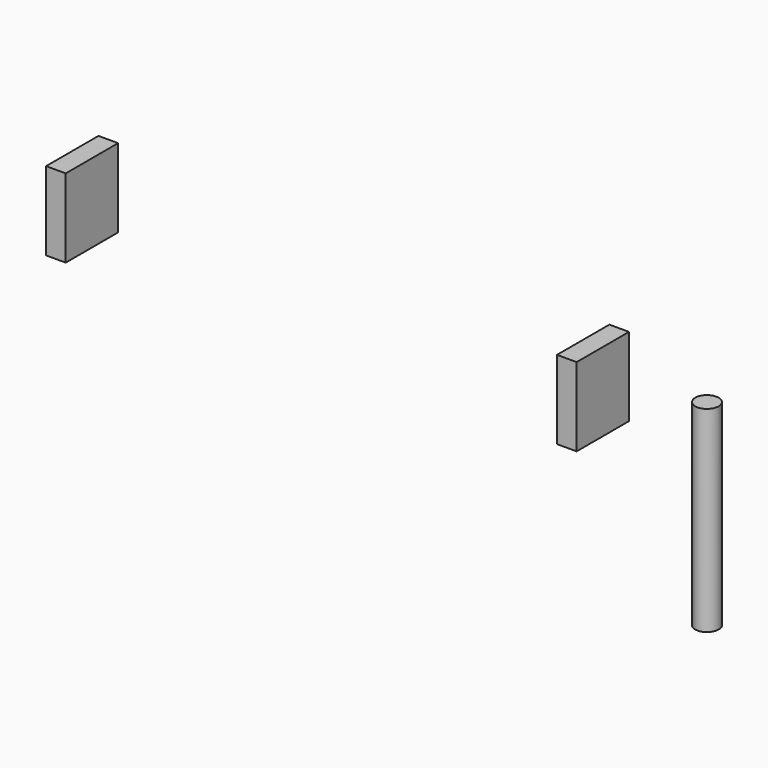
from build123d import *

# Parameters (mm, degrees)
F2_W     = 3
F2_H     = 10
F3_DEPTH = 12
F4_R     = 1.785938
F5_DEPTH = 30


with BuildPart() as f3:
    # F2 (on offset) → F3 (new body)
    with BuildSketch(Plane.XY.offset(10)):
        with Locations((21.115041, 2.641753)):
            Rectangle(F2_W, F2_H)
        with Locations((-56.884959, 2.641753)):
            Rectangle(F2_W, F2_H)
    extrude(amount=F3_DEPTH)


with BuildPart() as f5:
    # F4 (on offset) → F5 (new body)
    with BuildSketch(Plane.XY.offset(10)):
        with Locations((62.783509, -27.6933)):
            Circle(F4_R)
    extrude(amount=F5_DEPTH)


solid = Compound([f3.part, f5.part])
